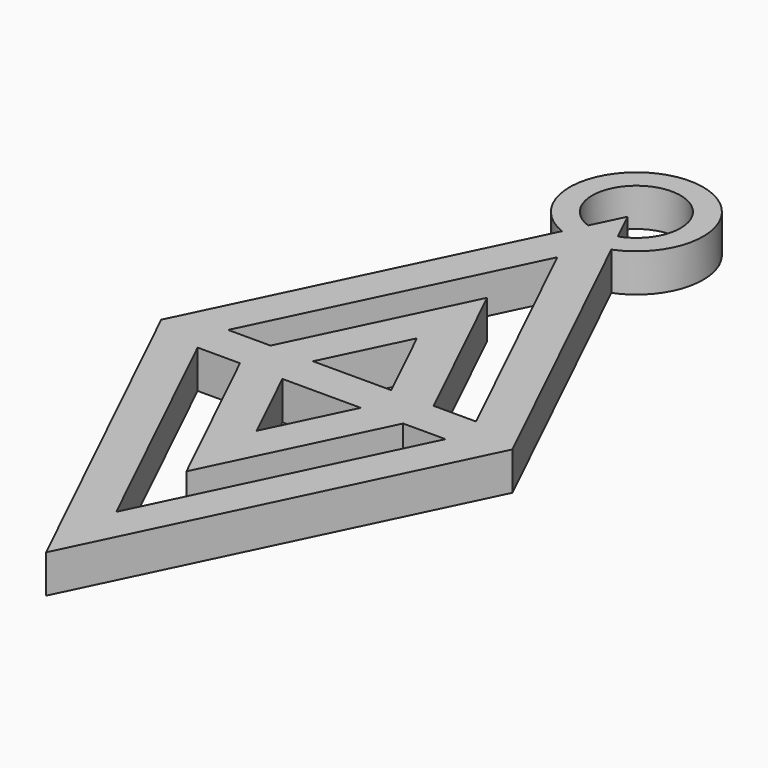
from build123d import *

# Parameters (mm, degrees)
F1_DEPTH = 2.54


with BuildPart() as f1:
    # F0 (on Top) → F1 (new body)
    with BuildSketch(Plane.XY):
        with BuildLine():
            Line((-1.643462, 20.775768), (-11.680827, 0))
            Line((-11.680827, 0), (0, -24.177477))
            Line((0, -24.177477), (11.684, 0))
            Line((11.684, 0), (1.648222, 20.766842))
            ThreePointArc((1.648222, 20.766842), (0.025625, 29.343431), (-1.643462, 20.775768))
        make_face()
        Polygon((0.000311, -18.339296), (-8.246351, -1.27), (-5.42545, -1.27), (0.000621, -12.501114), (5.428166, -1.27), (8.249213, -1.27), align=None, mode=Mode.SUBTRACT)
        Polygon((0.000932, -6.662933), (-2.604548, -1.27), (2.607119, -1.27), align=None, mode=Mode.SUBTRACT)
        Polygon((-2.604548, 1.27), (0.000932, 6.662933), (2.607119, 1.27), align=None, mode=Mode.SUBTRACT)
        Polygon((-8.246351, 1.27), (0.000311, 18.339296), (8.249213, 1.27), (5.428166, 1.27), (0.000621, 12.501114), (-5.42545, 1.27), align=None, mode=Mode.SUBTRACT)
        with BuildLine():
            Line((0.991492, 22.1258), (0, 24.177477))
            Line((0, 24.177477), (-0.987267, 22.133989))
            ThreePointArc((-0.987267, 22.133989), (0.025745, 27.84026), (0.991492, 22.1258))
        make_face(mode=Mode.SUBTRACT)
    extrude(amount=F1_DEPTH)


solid = f1.part
